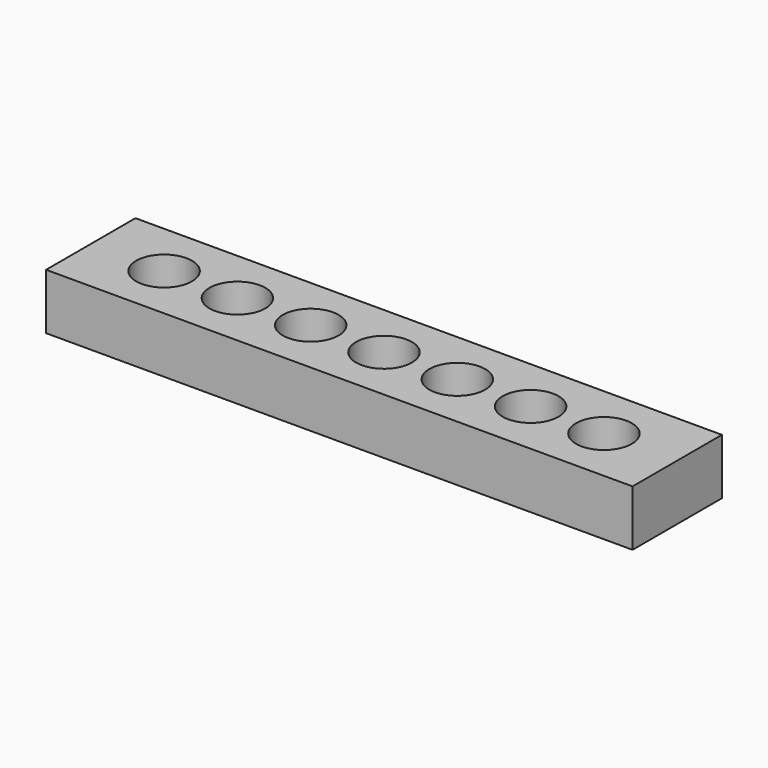
from build123d import *

# Parameters (mm, degrees)
SKETCH001_W = 200
SKETCH001_H = 38.1
SKETCH001_R = 9.525
PAD_DEPTH   = 19.05


with BuildPart() as part:
    # Sketch001 → Pad (new body)
    with BuildSketch(Plane.XY):
        with Locations((100, 19.05)):
            Rectangle(SKETCH001_W, SKETCH001_H)
        with Locations((25, 19.05)):
            Circle(SKETCH001_R, mode=Mode.SUBTRACT)
        with Locations((50, 19.05)):
            Circle(SKETCH001_R, mode=Mode.SUBTRACT)
        with Locations((75, 19.05)):
            Circle(SKETCH001_R, mode=Mode.SUBTRACT)
        with Locations((100, 19.05)):
            Circle(SKETCH001_R, mode=Mode.SUBTRACT)
        with Locations((125, 19.05)):
            Circle(SKETCH001_R, mode=Mode.SUBTRACT)
        with Locations((150, 19.05)):
            Circle(SKETCH001_R, mode=Mode.SUBTRACT)
        with Locations((175, 19.05)):
            Circle(SKETCH001_R, mode=Mode.SUBTRACT)
    extrude(amount=PAD_DEPTH)


solid = part.part
